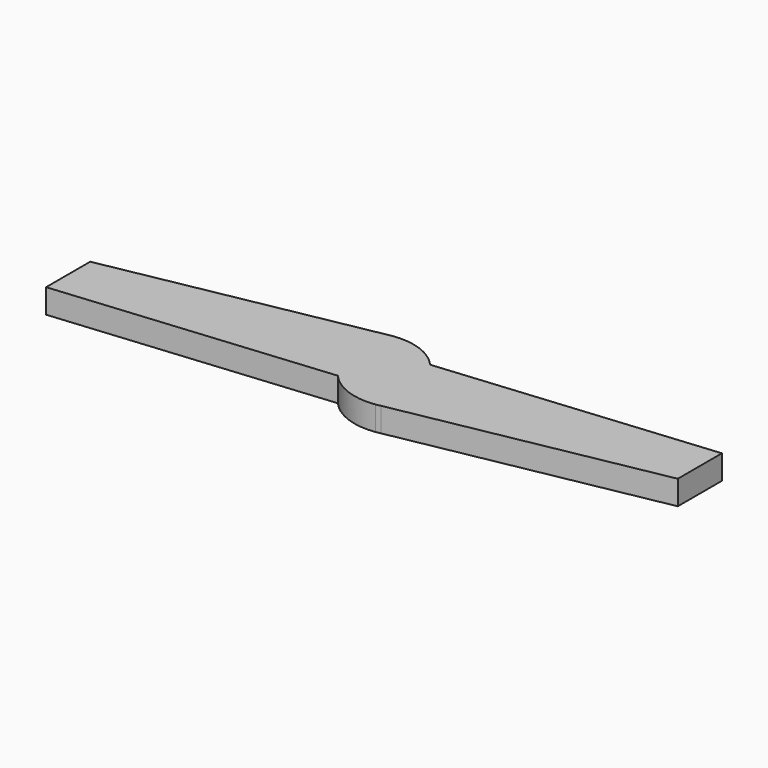
from build123d import *

# Parameters (mm, degrees)
F1_DEPTH = 5.08


with BuildPart() as f1:
    # F0 (on Top) → F1 (new body)
    with BuildSketch(Plane.XY):
        with BuildLine():
            ThreePointArc((-6.468649, 10.332586), (-6.980901, 10.247423), (-7.489161, 10.140995))
            Line((-7.489161, 10.140995), (-6.468649, 10.332586))
        make_face()
        with BuildLine():
            Line((7.489161, -10.140995), (6.450169, -10.336055))
            ThreePointArc((6.450169, -10.336055), (6.971735, -10.249555), (7.489161, -10.140995))
        make_face()
        with BuildLine():
            Line((-7.489161, 10.140995), (-61.505405, 0))
            Line((-61.505405, 0), (-61.505405, -11.547008))
            Line((-61.505405, -11.547008), (-4.681266, -6.230348))
            ThreePointArc((-4.681266, -6.230348), (0.364115, -9.693941), (6.450169, -10.336055))
            Line((6.450169, -10.336055), (7.489161, -10.140995))
            Line((7.489161, -10.140995), (61.505405, 0))
            Line((61.505405, 0), (61.505405, 11.547008))
            Line((61.505405, 11.547008), (4.673791, 6.233085))
            ThreePointArc((4.673791, 6.233085), (-0.377907, 9.694896), (-6.468649, 10.332586))
            Line((-6.468649, 10.332586), (-7.489161, 10.140995))
        make_face()
    extrude(amount=F1_DEPTH)


solid = f1.part
